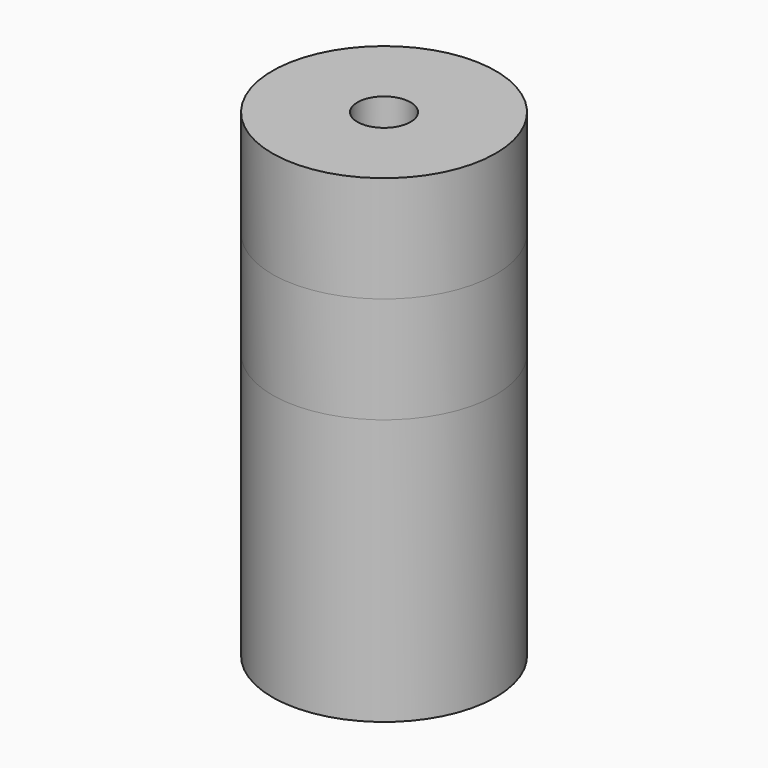
from build123d import *

# Parameters (mm, degrees)
F0_R      = 10.5
F1_DEPTH  = 25
F3_DEPTH  = 10
F1_FACE_R = 10.5
F4_DEPTH  = 10
F5_R      = 10.5
F5_R_2    = 2.5
F6_DEPTH  = 10


with BuildPart() as f1:
    # F0 (on Top) → F1 (new body)
    with BuildSketch(Plane.XY):
        Circle(F0_R)
        with BuildLine():
            ThreePointArc((-2.5, -4.898979), (-3.889087, -3.889087), (-4.898979, -2.5))
            Line((-4.898979, -2.5), (-7.5, -2.5))
            Line((-7.5, -2.5), (-7.5, 2.5))
            Line((-7.5, 2.5), (-4.898979, 2.5))
            ThreePointArc((-4.898979, 2.5), (-3.889087, 3.889087), (-2.5, 4.898979))
            Line((-2.5, 4.898979), (-2.5, 7.5))
            Line((-2.5, 7.5), (2.5, 7.5))
            Line((2.5, 7.5), (2.5, 4.898979))
            ThreePointArc((2.5, 4.898979), (3.889087, 3.889087), (4.898979, 2.5))
            Line((4.898979, 2.5), (7.5, 2.5))
            Line((7.5, 2.5), (7.5, -2.5))
            Line((7.5, -2.5), (4.898979, -2.5))
            ThreePointArc((4.898979, -2.5), (3.889087, -3.889087), (2.5, -4.898979))
            Line((2.5, -4.898979), (2.5, -7.5))
            Line((2.5, -7.5), (-2.5, -7.5))
            Line((-2.5, -7.5), (-2.5, -4.898979))
        make_face(mode=Mode.SUBTRACT)
    extrude(amount=F1_DEPTH)


with BuildPart() as f3:
    # F2 (on face) → F3 (new body)
    with BuildSketch(Plane.XY.offset(25)):
        with BuildLine():
            ThreePointArc((-4.898979, -2.5), (-3.889087, -3.889087), (-2.5, -4.898979))
            Line((-2.5, -4.898979), (-2.5, -7.5))
            Line((-2.5, -7.5), (2.5, -7.5))
            Line((2.5, -7.5), (2.5, -4.898979))
            ThreePointArc((2.5, -4.898979), (3.889087, -3.889087), (4.898979, -2.5))
            Line((4.898979, -2.5), (7.5, -2.5))
            Line((7.5, -2.5), (7.5, 2.5))
            Line((7.5, 2.5), (4.898979, 2.5))
            ThreePointArc((4.898979, 2.5), (3.889087, 3.889087), (2.5, 4.898979))
            Line((2.5, 4.898979), (2.5, 7.5))
            Line((2.5, 7.5), (-2.5, 7.5))
            Line((-2.5, 7.5), (-2.5, 4.898979))
            ThreePointArc((-2.5, 4.898979), (-3.889087, 3.889087), (-4.898979, 2.5))
            Line((-4.898979, 2.5), (-7.5, 2.5))
            Line((-7.5, 2.5), (-7.5, -2.5))
            Line((-7.5, -2.5), (-4.898979, -2.5))
        make_face()
        Polygon((4.769471, 0), (2.384736, -4.130483), (-2.384736, -4.130483), (-4.769471, 0), (-2.384736, 4.130483), (2.384736, 4.130483), align=None, mode=Mode.SUBTRACT)
    extrude(amount=F3_DEPTH)


with BuildPart() as f4:
    # F1_face (on face) → F4 (new body)
    with BuildSketch(Plane.XY.offset(25)):
        Circle(F1_FACE_R)
        with BuildLine():
            ThreePointArc((-2.5, -4.898979), (-3.889087, -3.889087), (-4.898979, -2.5))
            Line((-4.898979, -2.5), (-7.5, -2.5))
            Line((-7.5, -2.5), (-7.5, 2.5))
            Line((-7.5, 2.5), (-4.898979, 2.5))
            ThreePointArc((-4.898979, 2.5), (-3.889087, 3.889087), (-2.5, 4.898979))
            Line((-2.5, 4.898979), (-2.5, 7.5))
            Line((-2.5, 7.5), (2.5, 7.5))
            Line((2.5, 7.5), (2.5, 4.898979))
            ThreePointArc((2.5, 4.898979), (3.889087, 3.889087), (4.898979, 2.5))
            Line((4.898979, 2.5), (7.5, 2.5))
            Line((7.5, 2.5), (7.5, -2.5))
            Line((7.5, -2.5), (4.898979, -2.5))
            ThreePointArc((4.898979, -2.5), (3.889087, -3.889087), (2.5, -4.898979))
            Line((2.5, -4.898979), (2.5, -7.5))
            Line((2.5, -7.5), (-2.5, -7.5))
            Line((-2.5, -7.5), (-2.5, -4.898979))
        make_face(mode=Mode.SUBTRACT)
    extrude(amount=F4_DEPTH)


with BuildPart() as f6:
    # F5 (on face) → F6 (new body)
    with BuildSketch(Plane.XY.offset(35)):
        Circle(F5_R)
        Circle(F5_R_2, mode=Mode.SUBTRACT)
        Circle(F5_R)
        Circle(F5_R_2, mode=Mode.SUBTRACT)
    extrude(amount=F6_DEPTH)


solid = Compound([f1.part, f3.part, f4.part, f6.part])
